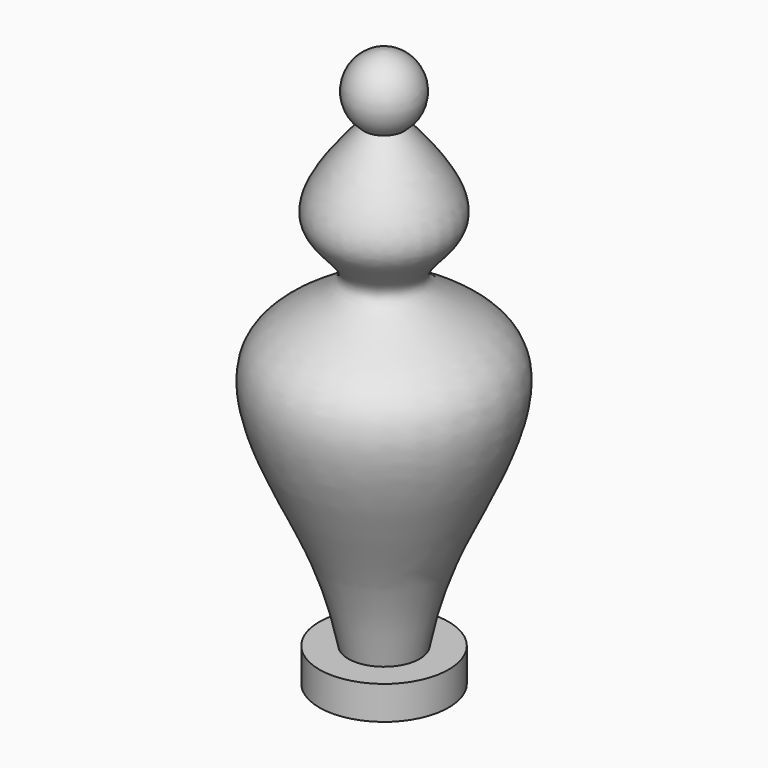
from build123d import *


with BuildPart() as f1:
    # F0 (on Front) → F1 (revolve)
    with BuildSketch(Plane.XZ):
        with BuildLine():
            Line((0, -30.7015124708), (0, 27.4452921003))
            ThreePointArc((0, 27.4452921003), (-3.4221515258, 24.8100043212), (-2.0932843909, 20.7002628595))
            add(Edge.make_bspline(
                [(-3.7213952746, -27.2127054632), (-4.3274233918, -24.3667985213), (-5.7386890692, -17.7394974533), (-17.0996215136, 1.2733005026), (0.1024817471, 6.0558566094), (-9.6554282454, 11.770667977), (-4.8424824907, 17.4539314282), (-2.0932843909, 20.7002628595)],
                knots=[0, 0, 0, 0, 0.1969948789, 0.4587445752, 0.655662956, 0.8033115694, 1, 1, 1, 1], degree=3))
            Line((-3.7213952746, -27.2127054632), (-6.7450297065, -27.2127054632))
            Line((-6.7450297065, -27.2127054632), (-6.7450297065, -30.7015124708))
            Line((-6.7450297065, -30.7015124708), (0, -30.7015124708))
        make_face()
    revolve(axis=Axis((0, 0, -1.6281101853), (0, 0, -1)))


solid = f1.part
